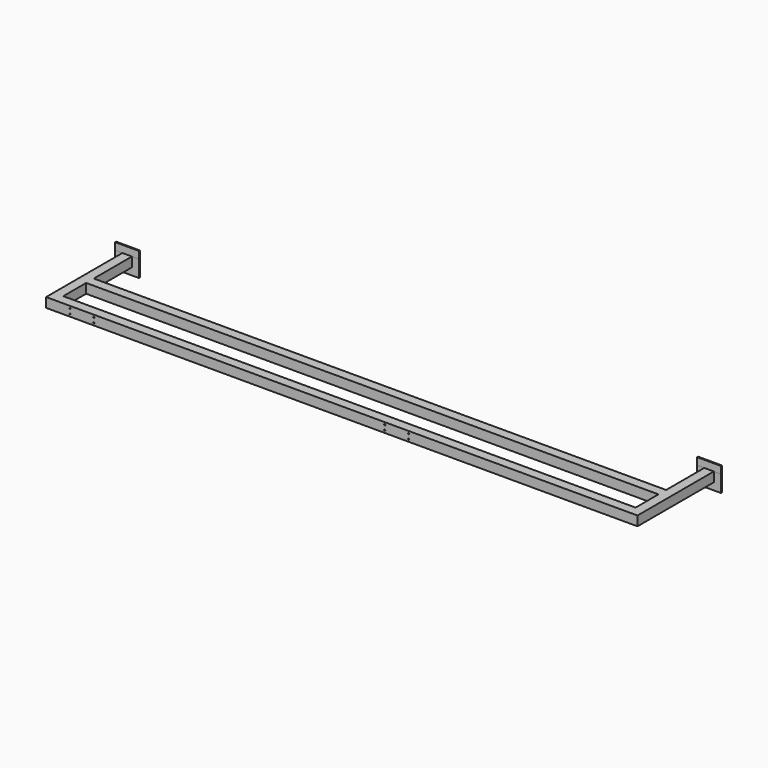
from build123d import *

# Parameters (mm, degrees)
F0_W      = 50.8
F0_H      = 50.8
F1_DEPTH  = 508
F2_W      = 50.8
F2_H      = 50.8
F3_DEPTH  = 3048
F4_W      = 50.8
F4_H      = 50.8
F5_DEPTH  = 508
F7_DEPTH  = 38.1
F7_FACE_W = 127
F7_FACE_H = 6.35
F8_DEPTH  = 88.9
F10_D     = 6.35
F10_DEPTH = 50.8


with BuildPart() as f1:
    # F0 (on Front) → F1 (new body)
    with BuildSketch(Plane.XZ):
        with Locations((25.4, 25.4)):
            Rectangle(F0_W, F0_H)
    extrude(amount=F1_DEPTH)

    # F2 (on face) → F3 (join)
    with BuildSketch(Plane.YZ.offset(50.8)):
        with Locations((-482.6, 25.4)):
            Rectangle(F2_W, F2_H)
        with Locations((-279.4, 25.4)):
            Rectangle(F2_W, F2_H)
    extrude(amount=F3_DEPTH)

    # F4 (on face) → F5 (join)
    with BuildSketch(Plane.XZ.offset(508)):
        with Locations((3124.2, 25.4)):
            Rectangle(F4_W, F4_H)
    extrude(amount=-F5_DEPTH)

    # F10
    with Locations(Plane.XZ.offset(508)):
        with Locations((127, 38.1), (254, 38.1), (127, 12.7), (254, 12.7), (1803.4, 38.1), (1803.4, 12.7), (1930.4, 38.1), (1930.4, 12.7)):
            Hole(F10_D / 2, depth=F10_DEPTH)


with BuildPart() as f7:
    # F6 (on face) → F7 (new body)
    with BuildSketch(Plane.XY.offset(50.8)):
        Polygon((3098.8, 0), (3149.6, 0), (3187.7, 0), (3187.7, 6.35), (3060.7, 6.35), (3060.7, 0), align=None)
        Polygon((-38.1, 6.35), (-38.1, 0), (0, 0), (50.8, 0), (88.9, 0), (88.9, 6.35), align=None)
    extrude(amount=F7_DEPTH)


with BuildPart() as f8:
    # F7_face (on face) → F8 (new body)
    with BuildSketch(Plane(origin=(25.4, 3.175, 50.8), x_dir=(1, 0, 0), z_dir=(0, 0, -1))):
        Rectangle(F7_FACE_W, F7_FACE_H)
        with Locations((3098.8, 0)):
            Rectangle(F7_FACE_W, F7_FACE_H)
    extrude(amount=F8_DEPTH)


solid = Compound([f1.part, f7.part, f8.part])
